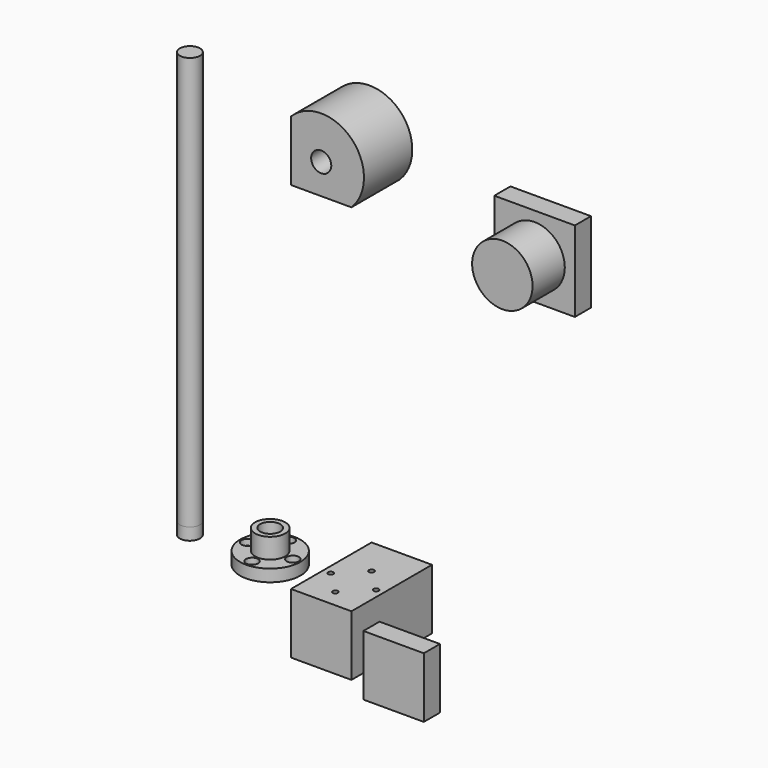
from build123d import *

# Parameters (mm, degrees)
F0_W      = 60
F0_H      = 60
F1_DEPTH  = 100
F2_W      = 60
F2_H      = 60
F3_DEPTH  = 20
F4_R      = 30
F4_R_2    = 6
F4_R_3    = 15
F4_R_4    = 10
F4_R_5    = 3
F5_DEPTH  = 12
F6_DEPTH  = 6
F7_DEPTH  = 20
F4_R_6    = 2.6
F8_DEPTH  = 15
F9_DEPTH  = 410
F10_R     = 10
F11_DEPTH = 60
F12_R     = 2.6
F13_DEPTH = 15
F14_W     = 80
F14_H     = 80
F14_R     = 30
F14_R_2   = 10
F15_DEPTH = 20
F16_DEPTH = 60
F17_DEPTH = 55


with BuildPart() as f1:
    # F0 (on Front) → F1 (new body)
    with BuildSketch(Plane.XZ):
        Rectangle(F0_W, F0_H)
    extrude(amount=-F1_DEPTH)

    # F4 (on face) → F8 (cut)
    with BuildSketch(Plane.XY.offset(30)):
        with Locations((-22.5, 40)):
            Circle(F4_R_6)
        with Locations((0, 62.5)):
            Circle(F4_R_6)
        with Locations((0, 17.5)):
            Circle(F4_R_6)
        with Locations((22.5, 40)):
            Circle(F4_R_6)
    extrude(amount=-F8_DEPTH, mode=Mode.SUBTRACT)


with BuildPart() as f3:
    # F2 (on Front) → F3 (new body)
    with BuildSketch(Plane.XZ):
        with Locations((87.8821611404, 0)):
            Rectangle(F2_W, F2_H)
    extrude(amount=F3_DEPTH)


with BuildPart() as f5:
    # F4 (on face) → F5 (new body)
    with BuildSketch(Plane.XY.offset(30)):
        with Locations((-82.6628729701, 40)):
            Circle(F4_R)
        with Locations((-82.6628729701, 17.5)):
            Circle(F4_R_2, mode=Mode.SUBTRACT)
        with Locations((-105.1628729701, 40)):
            Circle(F4_R_2, mode=Mode.SUBTRACT)
        with Locations((-82.6628729701, 40)):
            Circle(F4_R_3, mode=Mode.SUBTRACT)
        with Locations((-60.1628729701, 40)):
            Circle(F4_R_2, mode=Mode.SUBTRACT)
        with Locations((-82.6628729701, 62.5)):
            Circle(F4_R_2, mode=Mode.SUBTRACT)
        with Locations((-82.6628729701, 40)):
            Circle(F4_R)
        with Locations((-82.6628729701, 17.5)):
            Circle(F4_R_2, mode=Mode.SUBTRACT)
        with Locations((-105.1628729701, 40)):
            Circle(F4_R_2, mode=Mode.SUBTRACT)
        with Locations((-82.6628729701, 40)):
            Circle(F4_R_3, mode=Mode.SUBTRACT)
        with Locations((-60.1628729701, 40)):
            Circle(F4_R_2, mode=Mode.SUBTRACT)
        with Locations((-82.6628729701, 62.5)):
            Circle(F4_R_2, mode=Mode.SUBTRACT)
        with Locations((-82.6628729701, 40)):
            Circle(F4_R_3)
        with Locations((-82.6628729701, 40)):
            Circle(F4_R_4, mode=Mode.SUBTRACT)
        with Locations((-105.1628729701, 40)):
            Circle(F4_R_2)
        with Locations((-105.1628729701, 40)):
            Circle(F4_R_5, mode=Mode.SUBTRACT)
        with Locations((-82.6628729701, 62.5)):
            Circle(F4_R_2)
        with Locations((-82.6628729701, 62.5)):
            Circle(F4_R_5, mode=Mode.SUBTRACT)
        with Locations((-60.1628729701, 40)):
            Circle(F4_R_2)
        with Locations((-60.1628729701, 40)):
            Circle(F4_R_5, mode=Mode.SUBTRACT)
        with Locations((-82.6628729701, 17.5)):
            Circle(F4_R_2)
        with Locations((-82.6628729701, 17.5)):
            Circle(F4_R_5, mode=Mode.SUBTRACT)
    extrude(amount=-F5_DEPTH)

    # F4 (on face) → F6 (cut)
    with BuildSketch(Plane.XY.offset(30)):
        with Locations((-82.6628729701, 62.5)):
            Circle(F4_R_2)
        with Locations((-82.6628729701, 62.5)):
            Circle(F4_R_5, mode=Mode.SUBTRACT)
        with Locations((-60.1628729701, 40)):
            Circle(F4_R_2)
        with Locations((-60.1628729701, 40)):
            Circle(F4_R_5, mode=Mode.SUBTRACT)
        with Locations((-82.6628729701, 17.5)):
            Circle(F4_R_2)
        with Locations((-82.6628729701, 17.5)):
            Circle(F4_R_5, mode=Mode.SUBTRACT)
        with Locations((-105.1628729701, 40)):
            Circle(F4_R_2)
        with Locations((-105.1628729701, 40)):
            Circle(F4_R_5, mode=Mode.SUBTRACT)
    extrude(amount=-F6_DEPTH, mode=Mode.SUBTRACT)

    # F4 (on face) → F7 (join)
    with BuildSketch(Plane.XY.offset(30)):
        with Locations((-82.6628729701, 40)):
            Circle(F4_R_3)
        with Locations((-82.6628729701, 40)):
            Circle(F4_R_4, mode=Mode.SUBTRACT)
    extrude(amount=F7_DEPTH)


with BuildPart() as f5b:
    # F4 (on face) → F5, piece 2 (new body)
    with BuildSketch(Plane.XY.offset(30)):
        with Locations((-162.3637825251, 40)):
            Circle(F4_R_4)
    extrude(amount=-F5_DEPTH)

    # F4 (on face) → F9 (join)
    with BuildSketch(Plane.XY.offset(30)):
        with Locations((-162.3637825251, 40)):
            Circle(F4_R_4)
    extrude(amount=F9_DEPTH)


with BuildPart() as f11:
    # F10 (on Front) → F11 (new body)
    with BuildSketch(Plane.XZ):
        with BuildLine():
            Line((-30, 443.0536019802), (-30, 383.0536019802))
            Line((-30, 383.0536019802), (30, 383.0536019802))
            ThreePointArc((30, 383.0536019802), (30, 443.0536019802), (-30, 443.0536019802))
        make_face()
        with Locations((0, 413.0536019802)):
            Circle(F10_R, mode=Mode.SUBTRACT)
    extrude(amount=-F11_DEPTH)

    # F12 (on face) → F13 (cut)
    with BuildSketch(Plane(origin=(0, 0, 383.0536019802), x_dir=(1, 0, 0), z_dir=(0, 0, -1))):
        with Locations((0, -7.5)):
            Circle(F12_R)
        with Locations((-22.5, -30)):
            Circle(F12_R)
        with Locations((0, -52.5)):
            Circle(F12_R)
        with Locations((22.5, -30)):
            Circle(F12_R)
    extrude(amount=-F13_DEPTH, mode=Mode.SUBTRACT)


with BuildPart() as f15:
    # F14 (on face) → F15 (new body)
    with BuildSketch(Plane.XZ):
        with Locations((227.8455859423, 412.7208673954)):
            Rectangle(F14_W, F14_H)
        with Locations((227.8455859423, 412.7208673954)):
            Circle(F14_R, mode=Mode.SUBTRACT)
        with Locations((227.8455859423, 412.7208673954)):
            Circle(F14_R)
        with Locations((227.8455859423, 412.7208673954)):
            Circle(F14_R_2, mode=Mode.SUBTRACT)
        with Locations((227.8455859423, 412.7208673954)):
            Circle(F14_R_2)
    extrude(amount=F15_DEPTH)

    # F14 (on face) → F16 (join)
    with BuildSketch(Plane.XZ):
        with Locations((227.8455859423, 412.7208673954)):
            Circle(F14_R)
        with Locations((227.8455859423, 412.7208673954)):
            Circle(F14_R_2, mode=Mode.SUBTRACT)
        with Locations((227.8455859423, 412.7208673954)):
            Circle(F14_R_2)
    extrude(amount=F16_DEPTH)

    # F14 (on face) → F17 (cut)
    with BuildSketch(Plane.XZ):
        with Locations((227.8455859423, 412.7208673954)):
            Circle(F14_R_2)
    extrude(amount=F17_DEPTH, mode=Mode.SUBTRACT)


solid = Compound([f1.part, f3.part, f5.part, f5b.part, f11.part, f15.part])
